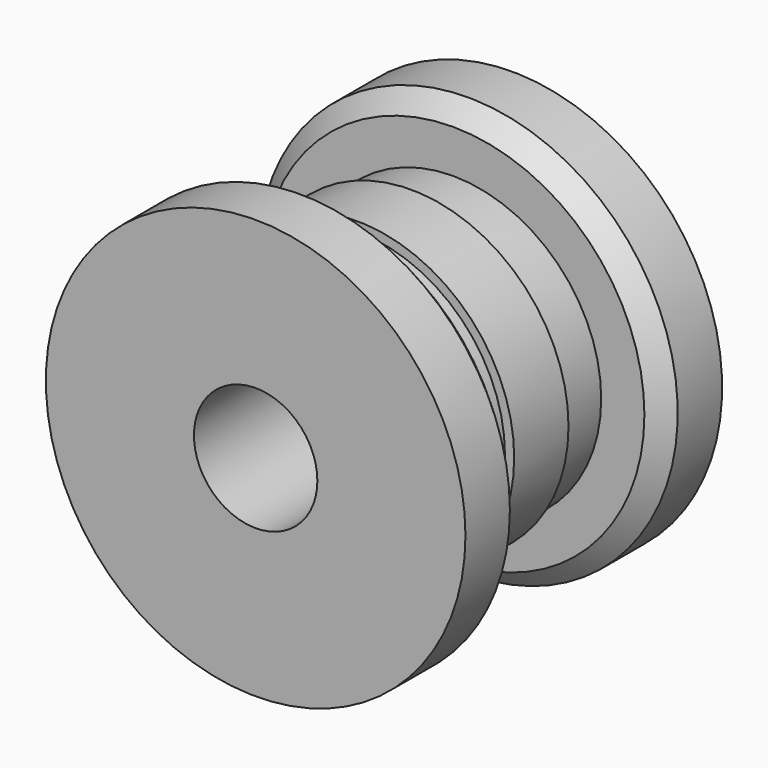
from build123d import *

# Parameters (mm, degrees)
F0_R     = 12
F0_R_2   = 5
F1_DEPTH = 7
F0_R_3   = 12.75
F2_DEPTH = 2.75
F3_R     = 17
F3_R_2   = 5
F4_DEPTH = 6
F5_SIZE  = 1.5
F6_R     = 17
F6_R_2   = 12
F6_R_3   = 5
F7_DEPTH = 6
F8_SIZE  = 1.5


with BuildPart() as f1:
    # F0 (on Front) → F1 (new body, symmetric)
    with BuildSketch(Plane.XZ):
        with Locations((-137.7102136612, -19.4580089301)):
            Circle(F0_R)
        with Locations((-137.7102136612, -19.4580089301)):
            Circle(F0_R_2, mode=Mode.SUBTRACT)
    extrude(amount=F1_DEPTH, both=True)

    # F0 (on Front) → F2 (join, symmetric)
    with BuildSketch(Plane.XZ):
        with Locations((-137.7102136612, -19.4580089301)):
            Circle(F0_R_3)
        with Locations((-137.7102136612, -19.4580089301)):
            Circle(F0_R, mode=Mode.SUBTRACT)
    extrude(amount=F2_DEPTH, both=True)

    # F3 (on face) → F4 (join)
    with BuildSketch(Plane.XZ.offset(7)):
        with Locations((-137.7102136612, -19.4580089301)):
            Circle(F3_R)
        with Locations((-137.7102136612, -19.4580089301)):
            Circle(F3_R_2, mode=Mode.SUBTRACT)
    extrude(amount=F4_DEPTH)

    # F5
    f5_edges = [f1.edges().sort_by_distance(p)[0] for p in [
        (-154.710214, -7, -19.458009),
    ]]
    chamfer(f5_edges, length=F5_SIZE)

    # F6 (on face) → F7 (join)
    with BuildSketch(Plane(origin=(0, 7, 0), x_dir=(-1, 0, 0), z_dir=(0, 1, 0))):
        with Locations((137.7102136612, -19.4580089301)):
            Circle(F6_R)
        with Locations((137.7102136612, -19.4580089301)):
            Circle(F6_R_2, mode=Mode.SUBTRACT)
        with Locations((137.7102136612, -19.4580089301)):
            Circle(F6_R_2)
        with Locations((137.7102136612, -19.4580089301)):
            Circle(F6_R_3, mode=Mode.SUBTRACT)
    extrude(amount=F7_DEPTH)

    # F8
    f8_edges = [f1.edges().sort_by_distance(p)[0] for p in [
        (-120.710214, 7, -19.458009),
    ]]
    chamfer(f8_edges, length=F8_SIZE)


solid = f1.part
